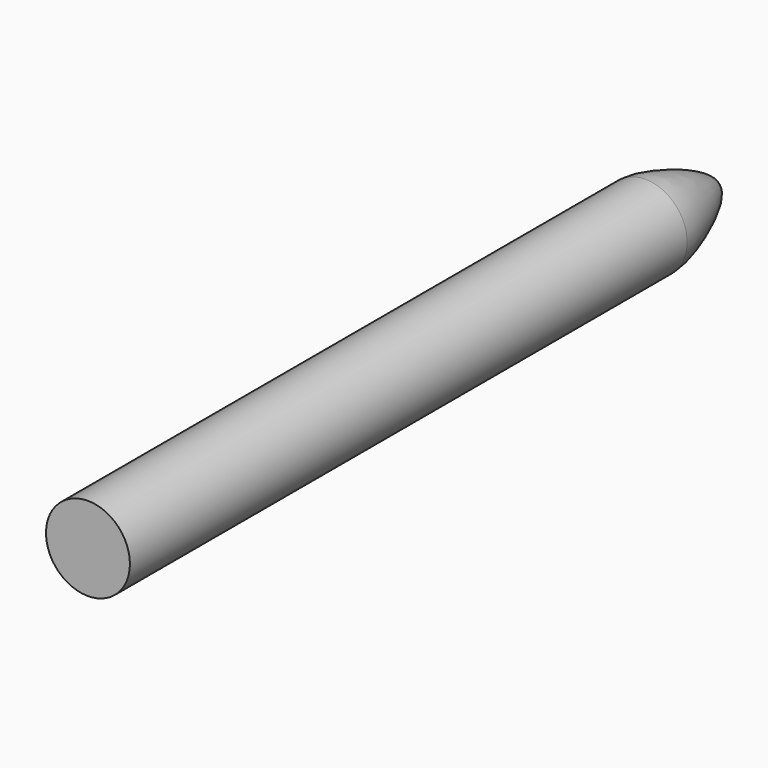
from build123d import *

# Parameters (mm, degrees)
F0_R     = 7.5
F1_DEPTH = 70


with BuildPart() as f1:
    # F0 (on Front) → F1 (new body, symmetric)
    with BuildSketch(Plane.XZ):
        Circle(F0_R)
    extrude(amount=F1_DEPTH, both=True)

    # F2 (on Right) → F3 (revolve, cut)
    with BuildSketch(Plane.YZ):
        with BuildLine():
            add(Edge.make_bspline(
                [(54.509006, 7.5), (58.366172, 7.5), (70, 3.207635), (70, 0.628002)],
                knots=[0, 0, 0, 0, 16.946836, 16.946836, 16.946836, 16.946836], degree=3))
            Line((70, 0.628002), (70, 7.5))
            Line((70, 7.5), (54.509006, 7.5))
        make_face()
    revolve(axis=Axis((0, 65.26164, 0), (0, -1, 0)), mode=Mode.SUBTRACT)


solid = f1.part
